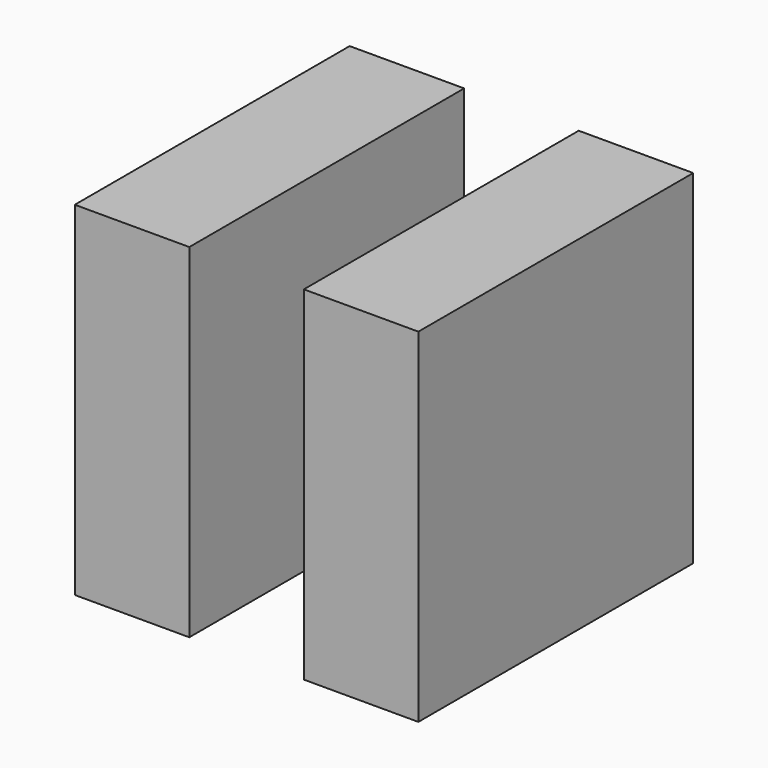
from build123d import *

# Parameters (mm, degrees)
F0_W     = 76.2
F0_H     = 76.2
F1_DEPTH = 25.4
F2_W     = 38.1
F2_H     = 38.1
F3_DEPTH = 25.4
F4_W     = 76.2
F4_H     = 76.2
F5_DEPTH = 25.4


with BuildPart() as f1:
    # F0 (on Right) → F1 (new body)
    with BuildSketch(Plane.YZ):
        Rectangle(F0_W, F0_H)
    extrude(amount=F1_DEPTH)

    # F2 (on face) → F3 (join)
    with BuildSketch(Plane.YZ.offset(25.4)):
        with Locations((19.05, -19.05)):
            Rectangle(F2_W, F2_H)
    extrude(amount=F3_DEPTH)

    # F4 (on face) → F5 (join)
    with BuildSketch(Plane.YZ.offset(50.8)):
        Rectangle(F4_W, F4_H)
    extrude(amount=F5_DEPTH)


solid = f1.part
